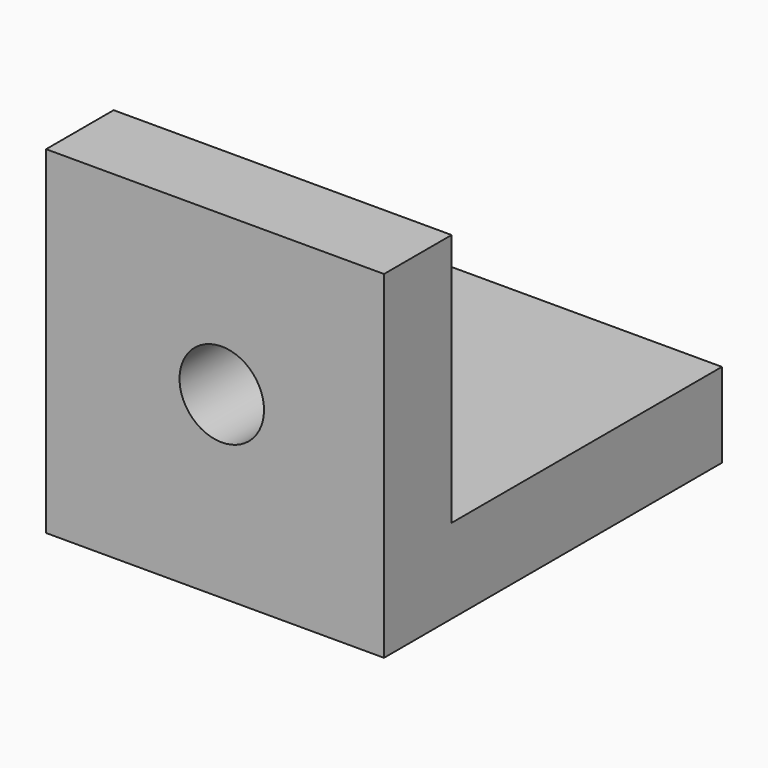
from build123d import *

# Parameters (mm, degrees)
F0_W     = 50.8
F0_H     = 50.8
F0_R     = 6.35
F2_DEPTH = 12.7
F1_W     = 50.8
F1_H     = 50.8
F3_DEPTH = 12.7


with BuildPart() as f2:
    # F0 (on Front) → F2 (new body)
    with BuildSketch(Plane.XZ):
        with Locations((25.4, 25.4)):
            Rectangle(F0_W, F0_H)
        with Locations((26.411066, 26.928931)):
            Circle(F0_R, mode=Mode.SUBTRACT)
    extrude(amount=F2_DEPTH)

    # F1 (on Top) → F3 (join)
    with BuildSketch(Plane.XY):
        with Locations((25.4, 25.4)):
            Rectangle(F1_W, F1_H)
    extrude(amount=F3_DEPTH)


solid = f2.part
